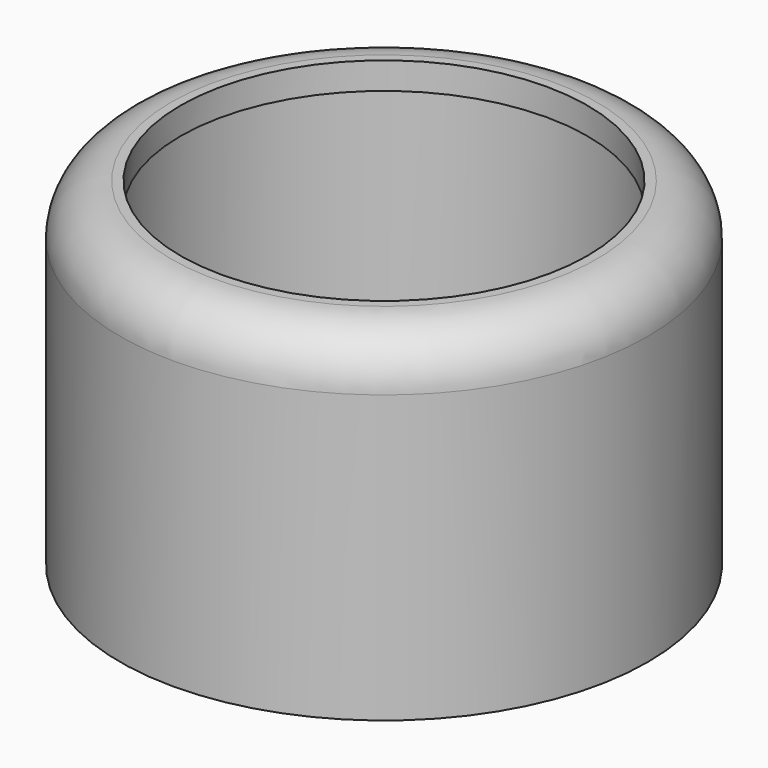
from build123d import *

# Parameters (mm, degrees)
F2_SIZE = 2.286
F3_R    = 4.318


with BuildPart() as f1:
    # F0 (on Front) → F1 (revolve)
    with BuildSketch(Plane.XZ):
        Polygon((-17.131681, 0), (-22.225, 0), (-22.225, -28.448), (-18.161, -28.448), (-18.161, -24.675057), (-19.972013, -24.675057), (-19.972013, -22.796622), (-18.161, -22.796622), (-18.161, -2.265504), (-17.131681, -2.265504), align=None)
    revolve(axis=Axis((0, 0, -14.224), (0, 0, -1)))

    # F2
    f2_edges = [f1.edges().sort_by_distance(p)[0] for p in [
        (18.161, 0, -28.448),
    ]]
    chamfer(f2_edges, length=F2_SIZE)

    # F3
    f3_edges = [f1.edges().sort_by_distance(p)[0] for p in [
        (22.225, 0, 0),
    ]]
    fillet(f3_edges, radius=F3_R)


solid = f1.part
